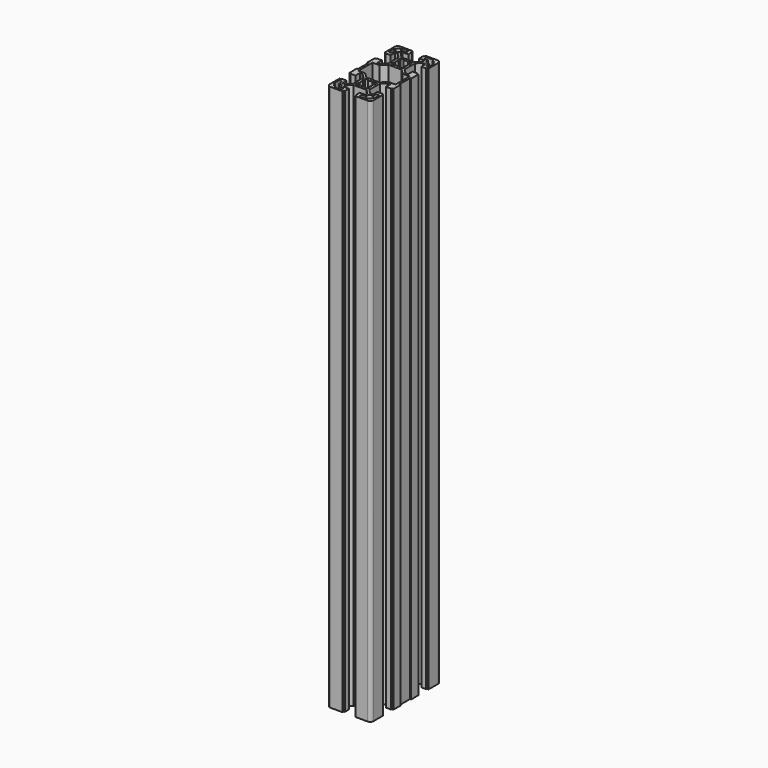
from build123d import *

# Parameters (mm, degrees)
F1_DEPTH = 500


with BuildPart() as f1:
    # F0 (on Top) → F1 (new body)
    with BuildSketch(Plane.XY):
        with BuildLine():
            ThreePointArc((-16.669192, 40.275085), (-18.790512, 39.396405), (-19.669192, 37.275085))
            Line((-19.669192, 37.275085), (-19.669192, 26.183498))
            Line((-19.669192, 26.183498), (-18.169192, 26.183498))
            Line((-18.169192, 26.183498), (-18.169192, 25.383498))
            Line((-18.169192, 25.383498), (-13.669192, 25.383498))
            Line((-13.669192, 25.383498), (-13.669192, 30.433498))
            Line((-13.669192, 30.433498), (-11.133405, 30.433498))
            Line((-11.133405, 30.433498), (-7.169192, 26.469284))
            Line((-7.169192, 26.469284), (-7.169192, 14.297711))
            Line((-7.169192, 14.297711), (-11.133405, 10.333498))
            Line((-11.133405, 10.333498), (-13.669192, 10.333498))
            Line((-13.669192, 10.333498), (-13.669192, 15.383498))
            Line((-13.669192, 15.383498), (-18.169192, 15.383498))
            Line((-18.169192, 15.383498), (-18.169192, 14.583498))
            Line((-18.169192, 14.583498), (-19.669192, 14.583498))
            Line((-19.669192, 14.583498), (-19.669192, 6.383498))
            Line((-19.669192, 6.383498), (-18.669192, 6.383498))
            Line((-18.669192, 6.383498), (-18.669192, -5.833328))
            Line((-18.669192, -5.833328), (-19.669192, -5.833328))
            Line((-19.669192, -5.833328), (-19.669192, -14.033328))
            Line((-19.669192, -14.033328), (-18.169192, -14.033328))
            Line((-18.169192, -14.033328), (-18.169192, -14.833328))
            Line((-18.169192, -14.833328), (-13.669192, -14.833328))
            Line((-13.669192, -14.833328), (-13.669192, -9.783328))
            Line((-13.669192, -9.783328), (-11.133405, -9.783328))
            Line((-11.133405, -9.783328), (-7.169192, -13.747541))
            Line((-7.169192, -13.747541), (-7.169192, -25.919114))
            Line((-7.169192, -25.919114), (-11.133405, -29.883328))
            Line((-11.133405, -29.883328), (-13.669192, -29.883328))
            Line((-13.669192, -29.883328), (-13.669192, -24.833328))
            Line((-13.669192, -24.833328), (-18.169192, -24.833328))
            Line((-18.169192, -24.833328), (-18.169192, -25.633328))
            Line((-18.169192, -25.633328), (-19.669192, -25.633328))
            Line((-19.669192, -25.633328), (-19.669192, -36.724915))
            ThreePointArc((-19.669192, -36.724915), (-18.790512, -38.846235), (-16.669192, -39.724915))
            Line((-16.669192, -39.724915), (-5.469192, -39.724915))
            Line((-5.469192, -39.724915), (-5.469192, -38.224915))
            Line((-5.469192, -38.224915), (-4.669192, -38.224915))
            Line((-4.669192, -38.224915), (-4.669192, -33.724915))
            Line((-4.669192, -33.724915), (-9.719192, -33.724915))
            Line((-9.719192, -33.724915), (-9.719192, -31.189129))
            Line((-9.719192, -31.189129), (-5.754978, -27.224915))
            Line((-5.754978, -27.224915), (6.416595, -27.224915))
            Line((6.416595, -27.224915), (10.380808, -31.189129))
            Line((10.380808, -31.189129), (10.380808, -33.724915))
            Line((10.380808, -33.724915), (5.330808, -33.724915))
            Line((5.330808, -33.724915), (5.330808, -38.224915))
            Line((5.330808, -38.224915), (6.130808, -38.224915))
            Line((6.130808, -38.224915), (6.130808, -39.724915))
            Line((6.130808, -39.724915), (17.330808, -39.724915))
            ThreePointArc((17.330808, -39.724915), (19.452128, -38.846235), (20.330808, -36.724915))
            Line((20.330808, -36.724915), (20.330808, -25.633328))
            Line((20.330808, -25.633328), (18.830808, -25.633328))
            Line((18.830808, -25.633328), (18.830808, -24.833328))
            Line((18.830808, -24.833328), (14.330808, -24.833328))
            Line((14.330808, -24.833328), (14.330808, -29.883328))
            Line((14.330808, -29.883328), (11.795022, -29.883328))
            Line((11.795022, -29.883328), (7.830808, -25.919114))
            Line((7.830808, -25.919114), (7.830808, -13.747541))
            Line((7.830808, -13.747541), (11.795022, -9.783328))
            Line((11.795022, -9.783328), (14.330808, -9.783328))
            Line((14.330808, -9.783328), (14.330808, -14.833328))
            Line((14.330808, -14.833328), (18.830808, -14.833328))
            Line((18.830808, -14.833328), (18.830808, -14.033328))
            Line((18.830808, -14.033328), (20.330808, -14.033328))
            Line((20.330808, -14.033328), (20.330808, -5.833328))
            Line((20.330808, -5.833328), (19.330808, -5.833328))
            Line((19.330808, -5.833328), (19.330808, 6.383498))
            Line((19.330808, 6.383498), (20.330808, 6.383498))
            Line((20.330808, 6.383498), (20.330808, 14.583498))
            Line((20.330808, 14.583498), (18.830808, 14.583498))
            Line((18.830808, 14.583498), (18.830808, 15.383498))
            Line((18.830808, 15.383498), (14.330808, 15.383498))
            Line((14.330808, 15.383498), (14.330808, 10.333498))
            Line((14.330808, 10.333498), (11.795022, 10.333498))
            Line((11.795022, 10.333498), (7.830808, 14.297711))
            Line((7.830808, 14.297711), (7.830808, 26.469284))
            Line((7.830808, 26.469284), (11.795022, 30.433498))
            Line((11.795022, 30.433498), (14.330808, 30.433498))
            Line((14.330808, 30.433498), (14.330808, 25.383498))
            Line((14.330808, 25.383498), (18.830808, 25.383498))
            Line((18.830808, 25.383498), (18.830808, 26.183498))
            Line((18.830808, 26.183498), (20.330808, 26.183498))
            Line((20.330808, 26.183498), (20.330808, 37.275085))
            ThreePointArc((20.330808, 37.275085), (19.452128, 39.396405), (17.330808, 40.275085))
            Line((17.330808, 40.275085), (6.130808, 40.275085))
            Line((6.130808, 40.275085), (6.130808, 38.775085))
            Line((6.130808, 38.775085), (5.330808, 38.775085))
            Line((5.330808, 38.775085), (5.330808, 34.275085))
            Line((5.330808, 34.275085), (10.380808, 34.275085))
            Line((10.380808, 34.275085), (10.380808, 31.739299))
            Line((10.380808, 31.739299), (6.416595, 27.775085))
            Line((6.416595, 27.775085), (-5.754978, 27.775085))
            Line((-5.754978, 27.775085), (-9.719192, 31.739299))
            Line((-9.719192, 31.739299), (-9.719192, 34.275085))
            Line((-9.719192, 34.275085), (-4.669192, 34.275085))
            Line((-4.669192, 34.275085), (-4.669192, 38.775085))
            Line((-4.669192, 38.775085), (-5.469192, 38.775085))
            Line((-5.469192, 38.775085), (-5.469192, 40.275085))
            Line((-5.469192, 40.275085), (-16.669192, 40.275085))
        make_face()
        with BuildLine():
            ThreePointArc((-15.169192, -31.77159), (-12.617983, -32.06259), (-11.419192, -34.333328))
            Line((-11.419192, -34.333328), (-11.419192, -35.333328))
            Line((-11.419192, -35.333328), (-9.169192, -35.333328))
            ThreePointArc((-9.169192, -35.333328), (-7.669192, -36.833328), (-9.169192, -38.333328))
            Line((-9.169192, -38.333328), (-14.169192, -38.333328))
            Line((-14.169192, -38.333328), (-14.169192, -37.083328))
            ThreePointArc((-14.169192, -37.083328), (-16.113736, -36.277871), (-16.919192, -34.333328))
            Line((-16.919192, -34.333328), (-18.169192, -34.333328))
            Line((-18.169192, -34.333328), (-18.169192, -29.333328))
            ThreePointArc((-18.169192, -29.333328), (-16.669192, -27.833328), (-15.169192, -29.333328))
            Line((-15.169192, -29.333328), (-15.169192, -31.77159))
        make_face(mode=Mode.SUBTRACT)
        with BuildLine():
            Line((-2.067108, -14.333328), (-1.667455, -15.249994))
            ThreePointArc((-1.667455, -15.249994), (0.330808, -14.833328), (2.329071, -15.249994))
            Line((2.329071, -15.249994), (2.728724, -14.333328))
            Line((2.728724, -14.333328), (5.830808, -14.333328))
            Line((5.830808, -14.333328), (5.830808, -17.435412))
            Line((5.830808, -17.435412), (4.914141, -17.835065))
            ThreePointArc((4.914141, -17.835065), (5.330808, -19.833328), (4.914141, -21.831591))
            Line((4.914141, -21.831591), (5.830808, -22.231243))
            Line((5.830808, -22.231243), (5.830808, -25.333328))
            Line((5.830808, -25.333328), (2.728724, -25.333328))
            Line((2.728724, -25.333328), (2.329071, -24.416661))
            ThreePointArc((2.329071, -24.416661), (0.330808, -24.833328), (-1.667455, -24.416661))
            Line((-1.667455, -24.416661), (-2.067108, -25.333328))
            Line((-2.067108, -25.333328), (-5.169192, -25.333328))
            Line((-5.169192, -25.333328), (-5.169192, -22.231243))
            Line((-5.169192, -22.231243), (-4.252525, -21.831591))
            ThreePointArc((-4.252525, -21.831591), (-4.669192, -19.833328), (-4.252525, -17.835065))
            Line((-4.252525, -17.835065), (-5.169192, -17.435412))
            Line((-5.169192, -17.435412), (-5.169192, -14.333328))
            Line((-5.169192, -14.333328), (-2.067108, -14.333328))
        make_face(mode=Mode.SUBTRACT)
        with BuildLine():
            ThreePointArc((17.580808, -34.333328), (16.775352, -36.277871), (14.830808, -37.083328))
            Line((14.830808, -37.083328), (14.830808, -38.333328))
            Line((14.830808, -38.333328), (9.830808, -38.333328))
            ThreePointArc((9.830808, -38.333328), (8.330808, -36.833328), (9.830808, -35.333328))
            Line((9.830808, -35.333328), (12.26907, -35.333328))
            ThreePointArc((12.26907, -35.333328), (12.886264, -32.388784), (15.830808, -31.77159))
            Line((15.830808, -31.77159), (15.830808, -29.333328))
            ThreePointArc((15.830808, -29.333328), (17.330808, -27.833328), (18.830808, -29.333328))
            Line((18.830808, -29.333328), (18.830808, -34.333328))
            Line((18.830808, -34.333328), (17.580808, -34.333328))
        make_face(mode=Mode.SUBTRACT)
        Polygon((-16.669192, -7.783328), (-16.669192, 8.333498), (-10.304978, 8.333498), (-5.754978, 12.883498), (6.416595, 12.883498), (10.966595, 8.333498), (17.330808, 8.333498), (17.330808, -7.783328), (10.966595, -7.783328), (6.416595, -12.333328), (-5.754978, -12.333328), (-10.304978, -7.783328), align=None, mode=Mode.SUBTRACT)
        with BuildLine():
            ThreePointArc((-16.919192, 34.883498), (-16.113736, 36.828041), (-14.169192, 37.633498))
            Line((-14.169192, 37.633498), (-14.169192, 38.883498))
            Line((-14.169192, 38.883498), (-9.169192, 38.883498))
            ThreePointArc((-9.169192, 38.883498), (-7.669192, 37.383498), (-9.169192, 35.883498))
            Line((-9.169192, 35.883498), (-11.419192, 35.883498))
            Line((-11.419192, 35.883498), (-11.607454, 35.883498))
            ThreePointArc((-11.607454, 35.883498), (-12.224648, 32.938954), (-15.169192, 32.32176))
            Line((-15.169192, 32.32176), (-15.169192, 32.133498))
            Line((-15.169192, 32.133498), (-15.169192, 29.883498))
            ThreePointArc((-15.169192, 29.883498), (-16.669192, 28.383498), (-18.169192, 29.883498))
            Line((-18.169192, 29.883498), (-18.169192, 34.883498))
            Line((-18.169192, 34.883498), (-16.919192, 34.883498))
        make_face(mode=Mode.SUBTRACT)
        with BuildLine():
            ThreePointArc((-4.252525, 18.385235), (-4.669192, 20.383498), (-4.252525, 22.381761))
            Line((-4.252525, 22.381761), (-5.169192, 22.781413))
            Line((-5.169192, 22.781413), (-5.169192, 25.883498))
            Line((-5.169192, 25.883498), (-2.067108, 25.883498))
            Line((-2.067108, 25.883498), (-1.667455, 24.966831))
            ThreePointArc((-1.667455, 24.966831), (0.330808, 25.383498), (2.329071, 24.966831))
            Line((2.329071, 24.966831), (2.728724, 25.883498))
            Line((2.728724, 25.883498), (5.830808, 25.883498))
            Line((5.830808, 25.883498), (5.830808, 22.781413))
            Line((5.830808, 22.781413), (4.914141, 22.381761))
            ThreePointArc((4.914141, 22.381761), (5.330808, 20.383498), (4.914141, 18.385235))
            Line((4.914141, 18.385235), (5.830808, 17.985582))
            Line((5.830808, 17.985582), (5.830808, 14.883498))
            Line((5.830808, 14.883498), (2.728724, 14.883498))
            Line((2.728724, 14.883498), (2.329071, 15.800164))
            ThreePointArc((2.329071, 15.800164), (0.330808, 15.383498), (-1.667455, 15.800164))
            Line((-1.667455, 15.800164), (-2.067108, 14.883498))
            Line((-2.067108, 14.883498), (-5.169192, 14.883498))
            Line((-5.169192, 14.883498), (-5.169192, 17.985582))
            Line((-5.169192, 17.985582), (-4.252525, 18.385235))
        make_face(mode=Mode.SUBTRACT)
        with BuildLine():
            ThreePointArc((9.830808, 35.883498), (8.330808, 37.383498), (9.830808, 38.883498))
            Line((9.830808, 38.883498), (14.830808, 38.883498))
            Line((14.830808, 38.883498), (14.830808, 37.633498))
            ThreePointArc((14.830808, 37.633498), (16.775352, 36.828041), (17.580808, 34.883498))
            Line((17.580808, 34.883498), (18.830808, 34.883498))
            Line((18.830808, 34.883498), (18.830808, 29.883498))
            ThreePointArc((18.830808, 29.883498), (17.330808, 28.383498), (15.830808, 29.883498))
            Line((15.830808, 29.883498), (15.830808, 32.32176))
            ThreePointArc((15.830808, 32.32176), (12.886264, 32.938954), (12.26907, 35.883498))
            Line((12.26907, 35.883498), (9.830808, 35.883498))
        make_face(mode=Mode.SUBTRACT)
    extrude(amount=F1_DEPTH)


solid = f1.part
